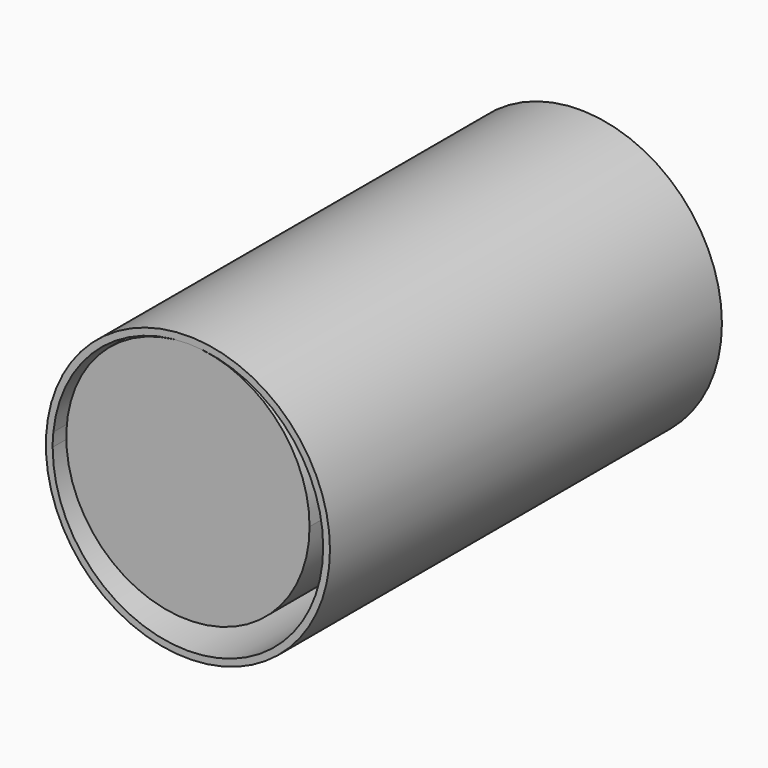
from build123d import *

# Parameters (mm, degrees)
F0_R     = 227.0125
F1_DEPTH = 914.4
F2_R     = 265.1125
F3_DEPTH = 914.4


with BuildPart() as f1:
    # F0 (on Front) → F1 (new body)
    with BuildSketch(Plane.XZ):
        Circle(F0_R)
    extrude(amount=-F1_DEPTH)

    # F2 (on face) → F3 (join)
    with BuildSketch(Plane.XZ):
        with Locations((0, -25.4)):
            Circle(F2_R)
        with BuildLine():
            ThreePointArc((0, 227.0125), (178.48259, 153.08259), (252.4125, -25.4))
            ThreePointArc((252.4125, -25.4), (0, -277.8125), (-252.4125, -25.4))
            ThreePointArc((-252.4125, -25.4), (-252.091987, -12.683853), (-251.131261, 0))
            ThreePointArc((-251.131261, 0), (-169.26428, 161.847627), (0, 227.0125))
        make_face(mode=Mode.SUBTRACT)
    extrude(amount=-F3_DEPTH)


solid = f1.part
